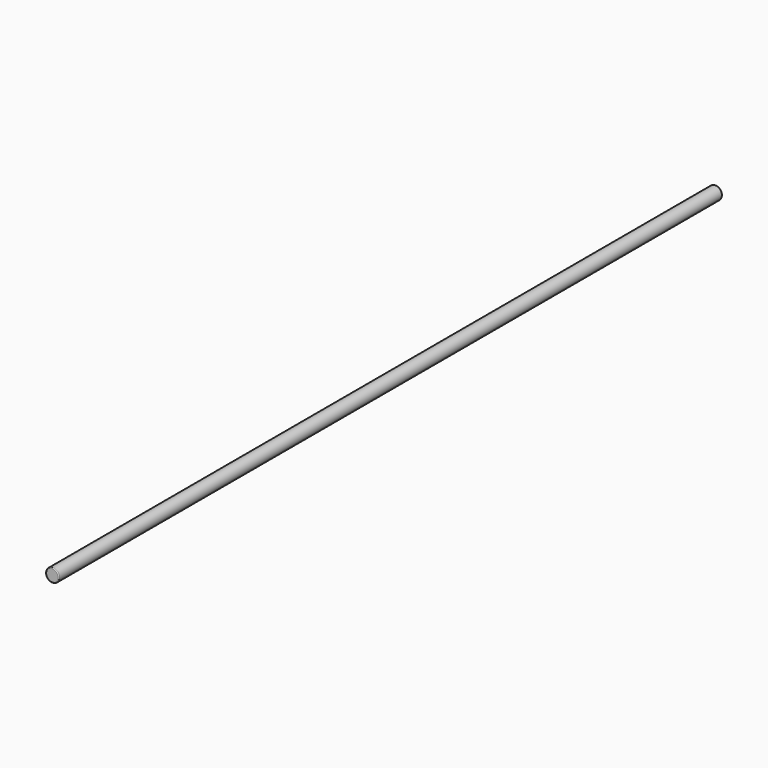
from build123d import *

# Parameters (mm, degrees)
SKETCH_R  = 4
PAD_DEPTH = 250
FILLET_R  = 0.5


with BuildPart() as part:
    # Sketch → Pad (new body, symmetric)
    with BuildSketch(Plane.XZ):
        Circle(SKETCH_R)
    extrude(amount=PAD_DEPTH, both=True)

    # Fillet
    fillet_edges = [part.edges().sort_by_distance(p)[0] for p in [
        (-4, -250, 0),
        (-4, 250, 0),
    ]]
    fillet(fillet_edges, radius=FILLET_R)


solid = part.part
